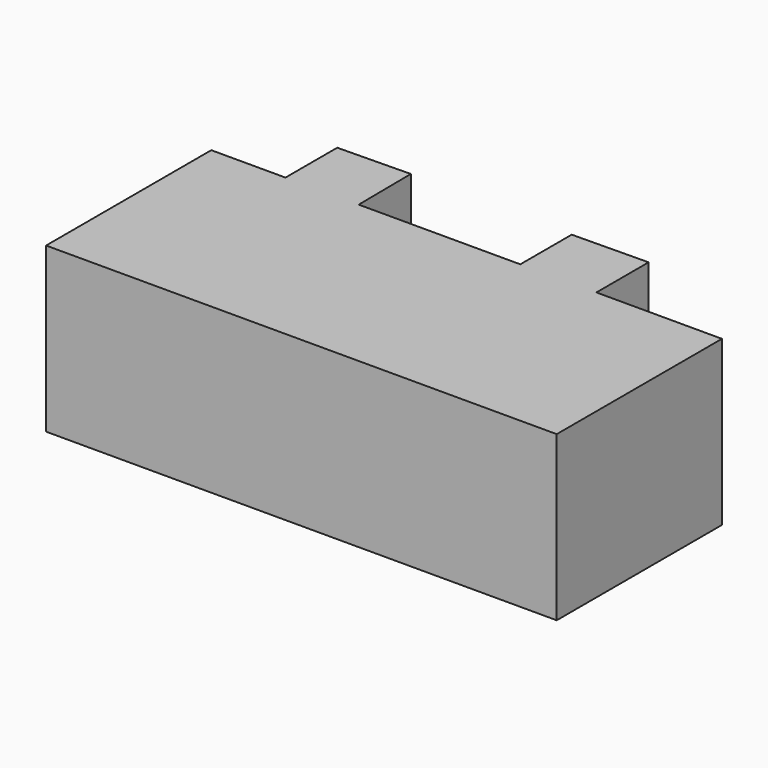
from build123d import *

# Parameters (mm, degrees)
F1_DEPTH = 25.4
F2_DEPTH = 25.4


with BuildPart() as f1:
    # F0 (on Top) → F1 (new body)
    with BuildSketch(Plane.XY):
        Polygon((-29.327272, 32.004528), (-40.825695, 32.004528), (-40.825695, 0), (38.318675, 0), (38.318675, 32.004528), (18.865567, 32.004528), (7.069093, 32.004528), (0, 32.004528), (0, 18.464023), (5.171617, 18.464023), (4.928618, 13.130507), (0, 13.130507), (0, 7.304969), (-8.66149, 7.304969), (-8.66149, 13.279019), (-13.442378, 13.279019), (-13.442378, 18.870654), (-8.66149, 18.870654), (-8.66149, 32.004528), (-17.973778, 32.004528), align=None)
    extrude(amount=F1_DEPTH)

    # F0 (on Top) → F2 (join)
    with BuildSketch(Plane.XY):
        Polygon((-29.327272, 32.004528), (-40.825695, 32.004528), (-40.825695, 0), (38.318675, 0), (38.318675, 32.004528), (18.865567, 32.004528), (7.069093, 32.004528), (0, 32.004528), (0, 18.464023), (5.171617, 18.464023), (4.928618, 13.130507), (0, 13.130507), (0, 7.304969), (-8.66149, 7.304969), (-8.66149, 13.279019), (-13.442378, 13.279019), (-13.442378, 18.870654), (-8.66149, 18.870654), (-8.66149, 32.004528), (-17.973778, 32.004528), align=None)
        Polygon((-29.327272, 42.033378), (-29.327272, 32.004528), (-17.973778, 32.004528), (-18.074421, 42.22302), align=None)
        Polygon((0, 32.004528), (-8.66149, 32.004528), (-8.66149, 18.870654), (-13.442378, 18.870654), (-13.442378, 13.279019), (-8.66149, 13.279019), (-8.66149, 7.304969), (0, 7.304969), (0, 13.130507), (4.928618, 13.130507), (5.171617, 18.464023), (0, 18.464023), align=None)
        Polygon((7.069093, 32.004528), (18.865567, 32.004528), (18.865567, 42.118017), (7.069093, 41.962616), align=None)
    extrude(amount=F2_DEPTH)


solid = f1.part
